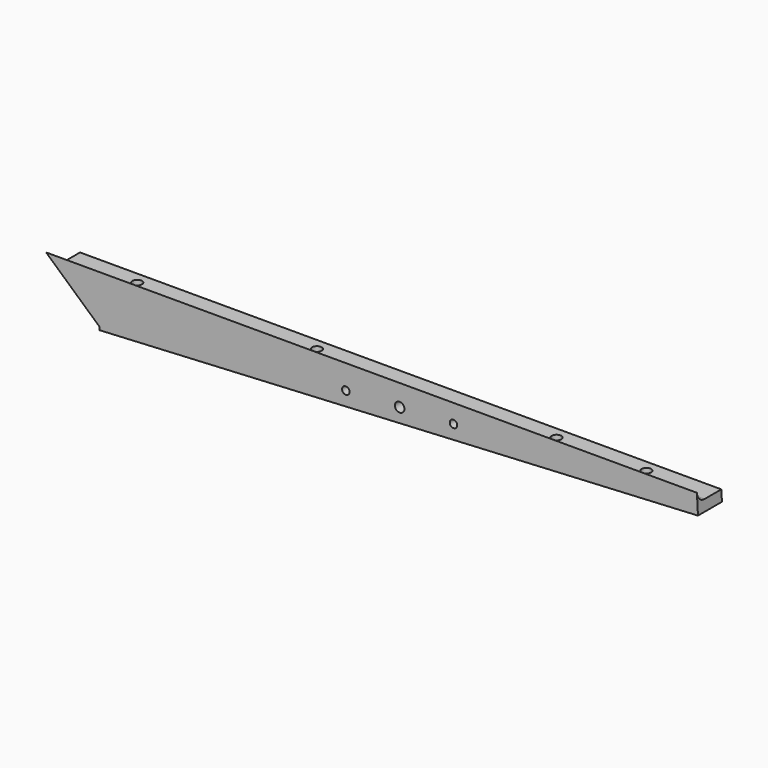
from build123d import *

# Parameters (mm, degrees)
CYLINDER033_R             = 1.6
CYLINDER033_DEPTH         = 100
CYLINDER034_R             = 1.25
CYLINDER034_DEPTH         = 100
CYLINDER035_R             = 1.25
CYLINDER035_DEPTH         = 100
FUSION027_PLACEMENT_ANGLE = 3.00002
CYLINDER012_R             = 3.2
CYLINDER012_DEPTH         = 3
CYLINDER013_R             = 1.6
CYLINDER013_DEPTH         = 30
CYLINDER014_R             = 3.2
CYLINDER014_DEPTH         = 3
CYLINDER015_R             = 1.6
CYLINDER015_DEPTH         = 30
CYLINDER016_R             = 3.2
CYLINDER016_DEPTH         = 3
CYLINDER017_R             = 1.6
CYLINDER017_DEPTH         = 30
CYLINDER011_R             = 3.2
CYLINDER011_DEPTH         = 3
CYLINDER010_R             = 1.6
CYLINDER010_DEPTH         = 30
BOX_W                     = 600
BOX_H                     = 10
BOX_DEPTH                 = 20
BOX_PLACEMENT_ANGLE       = 3
BOX001_W                  = 600
BOX001_H                  = 10
BOX001_DEPTH              = 20
BOX001_PLACEMENT_ANGLE    = 3
FILLET_R                  = 3
BOX003_W                  = 14
BOX003_H                  = 10
BOX003_DEPTH              = 27
BOX003_PLACEMENT_ANGLE    = 45
BOX002_W                  = 200
BOX002_H                  = 10
BOX002_DEPTH              = 17
CUT_PLACEMENT_ANGLE       = 2.999995


with BuildPart() as cylinder033:
    # Cylinder033 → Cylinder033 (new body)
    with BuildSketch(Plane(origin=(418, 0, 0), x_dir=(1, 0, 0), z_dir=(0, -1, 0))):
        Circle(CYLINDER033_R)
    extrude(amount=CYLINDER033_DEPTH)


with BuildPart() as cylinder034:
    # Cylinder034 → Cylinder034 (new body)
    with BuildSketch(Plane(origin=(436, 0, 0), x_dir=(1, 0, 0), z_dir=(0, -1, 0))):
        Circle(CYLINDER034_R)
    extrude(amount=CYLINDER034_DEPTH)


with BuildPart() as fusion027:
    # Cylinder035 → Cylinder035 (new body)
    with BuildSketch(Plane(origin=(400, 0, 0), x_dir=(1, 0, 0), z_dir=(0, -1, 0))):
        Circle(CYLINDER035_R)
    extrude(amount=CYLINDER035_DEPTH)

    # Fusion027: union Cylinder033, Cylinder034
    add(cylinder033.part)
    add(cylinder034.part)


with BuildPart() as fusion027_1:
    # Fusion027 placement: moved
    add(fusion027.part.moved(Location((83, 77, -26))).rotate(Axis((83, 77, -26), (0, -1, 0)), FUSION027_PLACEMENT_ANGLE))


with BuildPart() as cylinder012:
    # Cylinder012 → Cylinder012 (new body)
    with BuildSketch(Plane(origin=(578, 6, -35), x_dir=(1, 0, 0), z_dir=(0, 0, 1))):
        Circle(CYLINDER012_R)
    extrude(amount=CYLINDER012_DEPTH)


with BuildPart() as fusion013:
    # Cylinder013 → Cylinder013 (new body)
    with BuildSketch(Plane(origin=(578, 6, -35), x_dir=(1, 0, 0), z_dir=(0, 0, 1))):
        Circle(CYLINDER013_R)
    extrude(amount=CYLINDER013_DEPTH)

    # Fusion013: union Cylinder012
    add(cylinder012.part)


with BuildPart() as fusion013_1:
    # Fusion013 placement: moved
    add(fusion013.part.moved(Location((-170, 0, 21.1))))


with BuildPart() as cylinder014:
    # Cylinder014 → Cylinder014 (new body)
    with BuildSketch(Plane(origin=(578, 6, -35), x_dir=(1, 0, 0), z_dir=(0, 0, 1))):
        Circle(CYLINDER014_R)
    extrude(amount=CYLINDER014_DEPTH)


with BuildPart() as fusion014:
    # Cylinder015 → Cylinder015 (new body)
    with BuildSketch(Plane(origin=(578, 6, -35), x_dir=(1, 0, 0), z_dir=(0, 0, 1))):
        Circle(CYLINDER015_R)
    extrude(amount=CYLINDER015_DEPTH)

    # Fusion014: union Cylinder014
    add(cylinder014.part)


with BuildPart() as fusion014_1:
    # Fusion014 placement: moved
    add(fusion014.part.moved(Location((-110, 0, 24.3))))


with BuildPart() as cylinder016:
    # Cylinder016 → Cylinder016 (new body)
    with BuildSketch(Plane(origin=(578, 6, -35), x_dir=(1, 0, 0), z_dir=(0, 0, 1))):
        Circle(CYLINDER016_R)
    extrude(amount=CYLINDER016_DEPTH)


with BuildPart() as fusion015:
    # Cylinder017 → Cylinder017 (new body)
    with BuildSketch(Plane(origin=(578, 6, -35), x_dir=(1, 0, 0), z_dir=(0, 0, 1))):
        Circle(CYLINDER017_R)
    extrude(amount=CYLINDER017_DEPTH)

    # Fusion015: union Cylinder016
    add(cylinder016.part)


with BuildPart() as fusion015_1:
    # Fusion015 placement: moved
    add(fusion015.part.moved(Location((-30, 0, 28.5))))


with BuildPart() as cylinder011:
    # Cylinder011 → Cylinder011 (new body)
    with BuildSketch(Plane(origin=(578, 6, -35), x_dir=(1, 0, 0), z_dir=(0, 0, 1))):
        Circle(CYLINDER011_R)
    extrude(amount=CYLINDER011_DEPTH)


with BuildPart() as fusion035:
    # Cylinder010 → Cylinder010 (new body)
    with BuildSketch(Plane(origin=(578, 6, -35), x_dir=(1, 0, 0), z_dir=(0, 0, 1))):
        Circle(CYLINDER010_R)
    extrude(amount=CYLINDER010_DEPTH)

    # Fusion012: union Cylinder011
    add(cylinder011.part)


with BuildPart() as fusion035_1:
    # Fusion012 placement: moved
    add(fusion035.part.moved(Location((0, 0, 30))))

    # Fusion035: union Fusion013, Fusion014, Fusion015
    add(fusion013_1.part)
    add(fusion014_1.part)
    add(fusion015_1.part)


with BuildPart() as box:
    # Box → Box (new body)
    with BuildSketch(Plane.XY):
        with Locations((300, 5)):
            Rectangle(BOX_W, BOX_H)
    extrude(amount=BOX_DEPTH)


with BuildPart() as box_1:
    # Box placement: moved
    add(box.part.rotate(Axis((0, 0, 0), (0, 1, 0)), BOX_PLACEMENT_ANGLE))


with BuildPart() as fillet_body:
    # Box001 → Box001 (new body)
    with BuildSketch(Plane.XY):
        with Locations((300, 5)):
            Rectangle(BOX001_W, BOX001_H)
    extrude(amount=BOX001_DEPTH)


with BuildPart() as fillet_body_1:
    # Box001 placement: moved
    add(fillet_body.part.moved(Location((0, 52, 0))).rotate(Axis((0, 52, 0), (0, 1, 0)), BOX001_PLACEMENT_ANGLE))

    # Fusion: union Box
    add(box_1.part)

    # Fillet
    fillet_edges = [fillet_body_1.edges().sort_by_distance(p)[0] for p in [
        (300.63558, 62, 4.271804),
        (299.58886, 62, -15.700787),
        (299.58886, 0, -15.700787),
        (300.63558, 0, 4.271804),
    ]]
    fillet(fillet_edges, radius=FILLET_R)


with BuildPart() as box003:
    # Box003 → Box003 (new body)
    with BuildSketch(Plane.XY):
        with Locations((7, 5)):
            Rectangle(BOX003_W, BOX003_H)
    extrude(amount=BOX003_DEPTH)


with BuildPart() as box003_1:
    # Box003 placement: moved
    add(box003.part.moved(Location((400, 0, -35))).rotate(Axis((400, 0, -35), (0, -1, 0)), BOX003_PLACEMENT_ANGLE))


with BuildPart() as left_wheels_frame:
    # Box002 → Box002 (new body)
    with BuildSketch(Plane(origin=(399, 0, -35), x_dir=(1, 0, 0), z_dir=(0, 0, 1))):
        with Locations((100, 5)):
            Rectangle(BOX002_W, BOX002_H)
    extrude(amount=BOX002_DEPTH)

    # Fusion001: union Box003
    add(box003_1.part)

    # Cut: cut Fillet body
    add(fillet_body_1.part, mode=Mode.SUBTRACT)


with BuildPart() as left_wheels_frame_1:
    # Cut placement: moved
    add(left_wheels_frame.part.rotate(Axis((0, 0, 0), (0, -1, 0)), CUT_PLACEMENT_ANGLE))

    # Cut021: cut Fusion035
    add(fusion035_1.part, mode=Mode.SUBTRACT)

    # Cut022: cut Fusion027
    add(fusion027_1.part, mode=Mode.SUBTRACT)


with BuildPart() as left_wheels_frame_2:
    # Cut022 placement: moved
    add(left_wheels_frame_1.part.moved(Location((0, -10, 0))))


solid = left_wheels_frame_2.part
